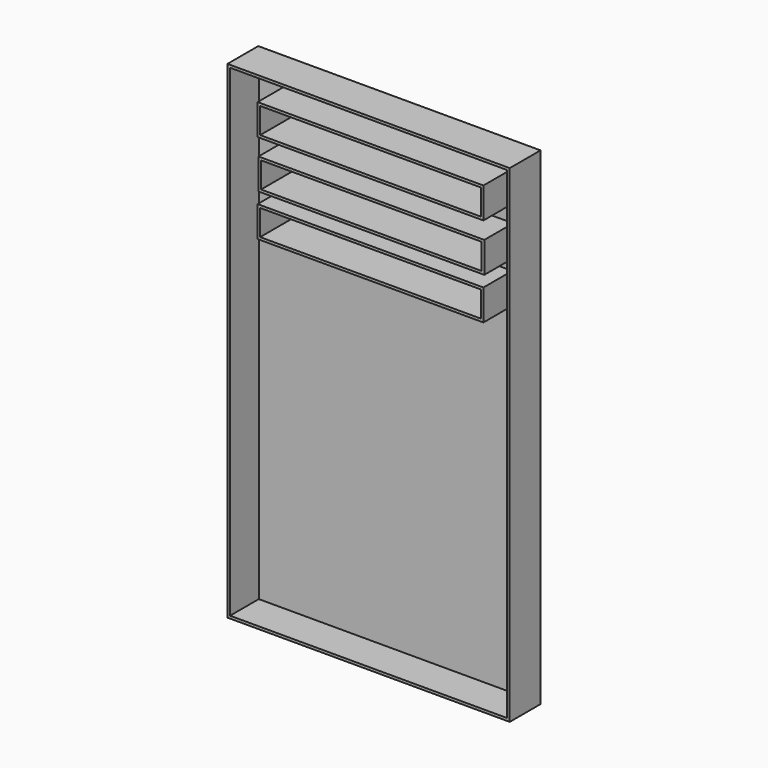
from build123d import *

# Parameters (mm, degrees)
F0_W     = 279.4
F0_H     = 482.6
F0_W_2   = 218.44
F0_H_2   = 25.4
F1_DEPTH = 38.1
F2_DEPTH = 25.4
F3_T     = -2.54


with BuildPart() as f1:
    # F0 (on Front) → F1 (new body)
    with BuildSketch(Plane.XZ):
        with Locations((-34.6037362662, 0.1808144152)):
            Rectangle(F0_W, F0_H)
        with Locations((-32.7158253479, 113.7473966599)):
            Rectangle(F0_W_2, F0_H_2, mode=Mode.SUBTRACT)
        with Locations((-31.8270157862, 155.5219079971)):
            Rectangle(F0_W_2, F0_H_2, mode=Mode.SUBTRACT)
        with Locations((-32.7158253479, 202.6293214083)):
            Rectangle(F0_W_2, F0_H_2, mode=Mode.SUBTRACT)
    extrude(amount=F1_DEPTH)

    # F0 (on Front) → F2 (join)
    with BuildSketch(Plane.XZ):
        with Locations((-34.6037362662, 0.1808144152)):
            Rectangle(F0_W, F0_H)
        with Locations((-32.7158253479, 113.7473966599)):
            Rectangle(F0_W_2, F0_H_2, mode=Mode.SUBTRACT)
        with Locations((-31.8270157862, 155.5219079971)):
            Rectangle(F0_W_2, F0_H_2, mode=Mode.SUBTRACT)
        with Locations((-32.7158253479, 202.6293214083)):
            Rectangle(F0_W_2, F0_H_2, mode=Mode.SUBTRACT)
    extrude(amount=F2_DEPTH)

    # F3
    f3_openings = [f1.faces().sort_by_distance(p)[0] for p in [
        (-34.911334, -38.1, -21.946168),
    ]]
    offset(amount=F3_T, openings=f3_openings, kind=Kind.INTERSECTION)


solid = f1.part
